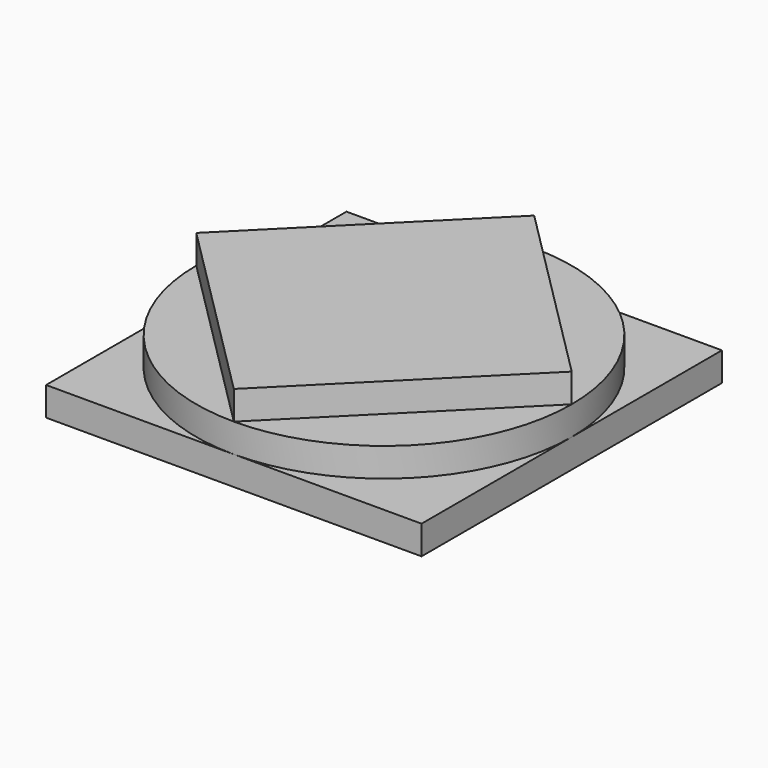
from build123d import *

# Parameters (mm, degrees)
F0_W     = 76.2
F0_H     = 76.2
F1_DEPTH = 5.842
F2_R     = 38.1
F3_DEPTH = 5.842
F5_DEPTH = 5.842


with BuildPart() as f1:
    # F0 (on Top) → F1 (new body)
    with BuildSketch(Plane.XY):
        with Locations((32.087865, 34.309075)):
            Rectangle(F0_W, F0_H)
    extrude(amount=F1_DEPTH)

    # F2 (on face) → F3 (join)
    with BuildSketch(Plane.XY.offset(5.842)):
        with Locations((32.087865, 34.309075)):
            Circle(F2_R)
    extrude(amount=F3_DEPTH)

    # F4 (on face) → F5 (join)
    with BuildSketch(Plane.XY.offset(11.684)):
        Polygon((70.187865, 34.309075), (32.087865, 72.409075), (-6.012135, 34.309075), (32.087865, -3.790925), align=None)
    extrude(amount=F5_DEPTH)


solid = f1.part
